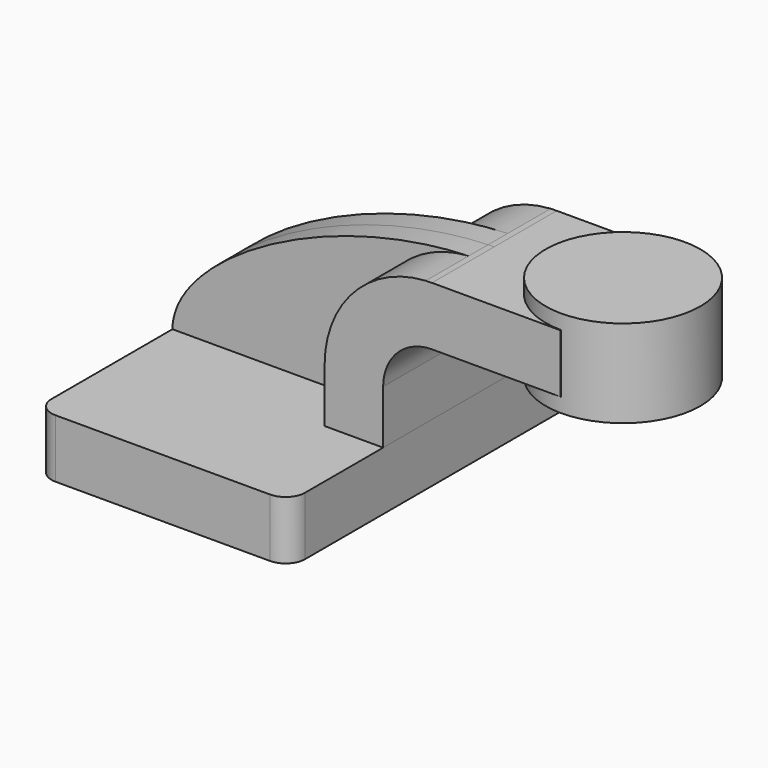
from build123d import *

# Parameters (mm, degrees)
F1_DEPTH = 63.5
F0_W     = 25.6192001271
F0_H     = 19.05
F2_DEPTH = 25.4
F3_DEPTH = 7.9375
F5_R     = 6.35


with BuildPart() as f1:
    # F0 (on Front) → F1 (new body, symmetric)
    with BuildSketch(Plane.XZ):
        Polygon((22.225, 9.525), (-41.275, 9.525), (-41.275, -9.525), (41.275, -9.525), (41.275, 9.525), align=None)
    extrude(amount=F1_DEPTH, both=True)

    # F5
    f5_edges = [f1.edges().sort_by_distance(p)[0] for p in [
        (-41.275, -63.5, 0),
        (41.275, -63.5, 0),
        (41.275, 63.5, 0),
        (-41.275, 63.5, 0),
    ]]
    fillet(f5_edges, radius=F5_R)


with BuildPart() as f2:
    # F0 (on Front) → F2 (new body, symmetric)
    with BuildSketch(Plane.XZ):
        with BuildLine():
            Line((22.225, 27.0002), (22.225, 9.525))
            Line((22.225, 9.525), (41.275, 9.525))
            Line((41.275, 9.525), (41.275, 27.0002))
            ThreePointArc((41.275, 27.0002), (45.9246798487, 38.2255201513), (57.15, 42.8752))
            Line((57.15, 42.8752), (73.4250409278, 42.8752))
            Line((73.4250409278, 42.8752), (73.4250409278, 61.9252))
            Line((73.4250409278, 61.9252), (57.15, 61.9252))
            add(Edge.make_bspline(
                [(55.1467635133, 61.8677016108), (55.8145914565, 61.8920933815), (56.4823802106, 61.9112896237), (57.15, 61.9252)],
                knots=[109.9768834812, 109.9768834812, 109.9768834812, 109.9768834812, 111.5045361635, 111.5045361635, 111.5045361635, 111.5045361635], degree=3))
            ThreePointArc((55.1467635133, 61.8677016108), (31.7559193974, 50.9771951276), (22.225, 27.0002))
        make_face()
        with Locations((86.2346409914, 52.4002)):
            Rectangle(F0_W, F0_H)
    extrude(amount=F2_DEPTH, both=True)

    # F0 (on Front) → F4 (revolve)
    with BuildSketch(Plane.XZ):
        Polygon((99.044241055, 66.675), (99.044241055, 61.9252), (99.044241055, 42.8752), (99.044241055, 38.1), (124.2250409278, 38.1), (124.2250409278, 66.675), align=None)
    revolve(axis=Axis((99.044241055, 0, 52.3875), (0, 0, -1)))


with BuildPart() as f3:
    # F0 (on Front) → F3 (new body, symmetric)
    with BuildSketch(Plane.XZ):
        with BuildLine():
            add(Edge.make_bspline(
                [(-41.275, 9.525), (-41.211228034, 31.429027723), (7.0693197697, 60.1117194089), (55.1467635133, 61.8677016108)],
                knots=[0, 0, 0, 0, 109.9768834812, 109.9768834812, 109.9768834812, 109.9768834812], degree=3))
            Line((-41.275, 9.525), (22.225, 9.525))
            Line((22.225, 9.525), (22.225, 27.0002))
            ThreePointArc((22.225, 27.0002), (31.7559193974, 50.9771951276), (55.1467635133, 61.8677016108))
        make_face()
    extrude(amount=F3_DEPTH, both=True)


solid = Compound([f1.part, f2.part, f3.part])
